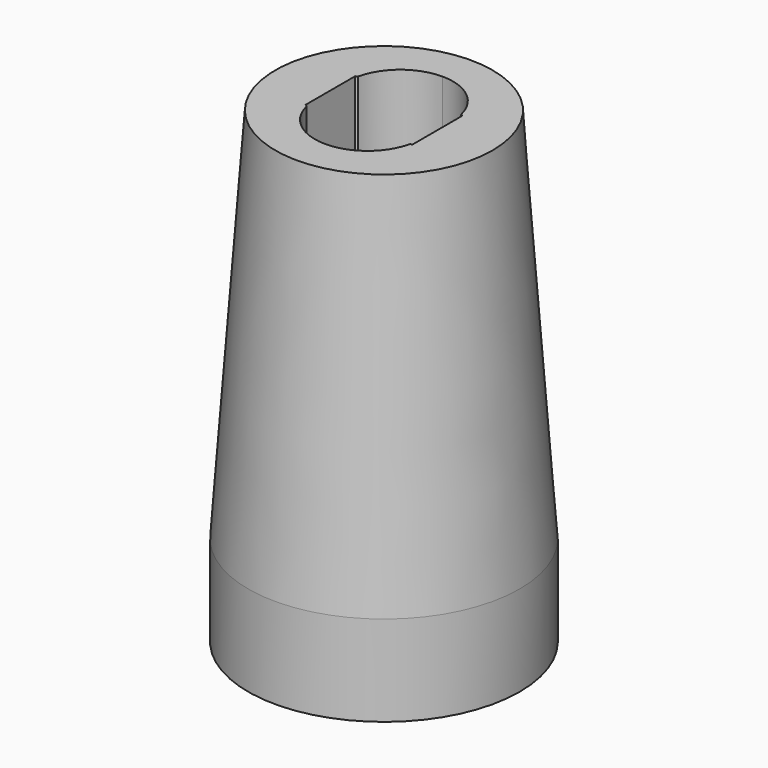
from build123d import *

# Parameters (mm, degrees)
F0_R     = 9
F1_DEPTH = 16
F2_DEPTH = 4
F3_DEPTH = 15
F4_R     = 5
F5_R     = 1
F6_SIZE2 = 25
F6_SIZE  = 1.8


with BuildPart() as f1:
    # F0 (on Top) → F1 (new body)
    with BuildSketch(Plane.XY):
        Circle(F0_R)
        Polygon((-4.85, 4.85), (0, 4.85), (4.85, 4.85), (4.85, -4.85), (0, -4.85), (-4.85, -4.85), align=None, mode=Mode.SUBTRACT)
        with BuildLine():
            Line((3.4119543857, 2.130107217), (3.5507041555, 2.05))
            Line((3.5507041555, 2.05), (3.5507041555, -2.05))
            Line((3.5507041555, -2.05), (3.4119543857, -2.130107217))
            ThreePointArc((3.4119543857, -2.130107217), (2.1816994225, -4.0868207157), (0, -4.85))
            Line((0, -4.85), (4.85, -4.85))
            Line((4.85, -4.85), (4.85, 4.85))
            Line((4.85, 4.85), (0, 4.85))
            ThreePointArc((0, 4.85), (2.1816994225, 4.0868207157), (3.4119543857, 2.130107217))
        make_face()
        with BuildLine():
            ThreePointArc((-3.4119543857, 2.130107217), (-2.1816994225, 4.0868207157), (0, 4.85))
            Line((0, 4.85), (-4.85, 4.85))
            Line((-4.85, 4.85), (-4.85, -4.85))
            Line((-4.85, -4.85), (0, -4.85))
            ThreePointArc((0, -4.85), (-2.1816994225, -4.0868207157), (-3.4119543857, -2.130107217))
            Line((-3.4119543857, -2.130107217), (-3.5507041555, -2.05))
            Line((-3.5507041555, -2.05), (-3.5507041555, 2.05))
            Line((-3.5507041555, 2.05), (-3.4119543857, 2.130107217))
        make_face()
    extrude(amount=F1_DEPTH)

    # F0 (on Top) → F2 (join)
    with BuildSketch(Plane.XY):
        with BuildLine():
            ThreePointArc((0, -4.85), (2.1816994225, -4.0868207157), (3.4119543857, -2.130107217))
            Line((3.4119543857, -2.130107217), (0, -4.1))
            Line((0, -4.1), (-3.4119543857, -2.130107217))
            ThreePointArc((-3.4119543857, -2.130107217), (-2.1816994225, -4.0868207157), (0, -4.85))
        make_face()
        with BuildLine():
            Line((0, 4.1), (3.4119543857, 2.130107217))
            ThreePointArc((3.4119543857, 2.130107217), (2.1816994225, 4.0868207157), (0, 4.85))
            ThreePointArc((0, 4.85), (-2.1816994225, 4.0868207157), (-3.4119543857, 2.130107217))
            Line((-3.4119543857, 2.130107217), (0, 4.1))
        make_face()
    extrude(amount=F2_DEPTH)

    # F0 (on Top) → F3 (join)
    with BuildSketch(Plane.XY):
        Circle(F0_R)
        Polygon((-4.85, 4.85), (0, 4.85), (4.85, 4.85), (4.85, -4.85), (0, -4.85), (-4.85, -4.85), align=None, mode=Mode.SUBTRACT)
    extrude(amount=-F3_DEPTH)

    # F4
    f4_edges = [f1.edges().sort_by_distance(p)[0] for p in [
        (0, -4.1, 2),
        (0, 4.1, 2),
    ]]
    fillet(f4_edges, radius=F4_R)

    # F5
    f5_edges = [f1.edges().sort_by_distance(p)[0] for p in [
        (-4.85, -4.85, -7.5),
        (4.85, -4.85, -7.5),
        (4.85, 4.85, -7.5),
        (-4.85, 4.85, -7.5),
        (0, -4.85, 0),
        (-4.85, 0, 0),
        (0, 4.85, 0),
        (4.85, 0, 0),
    ]]
    fillet(f5_edges, radius=F5_R)

    # F6
    f6_edges = [f1.edges().sort_by_distance(p)[0] for p in [
        (-9, 0, 16),
    ]]
    f6_side = f1.faces().sort_by_distance((3.608608, 2.310508, 16))[0]
    chamfer(f6_edges, length=F6_SIZE, length2=F6_SIZE2, reference=f6_side)


solid = f1.part
